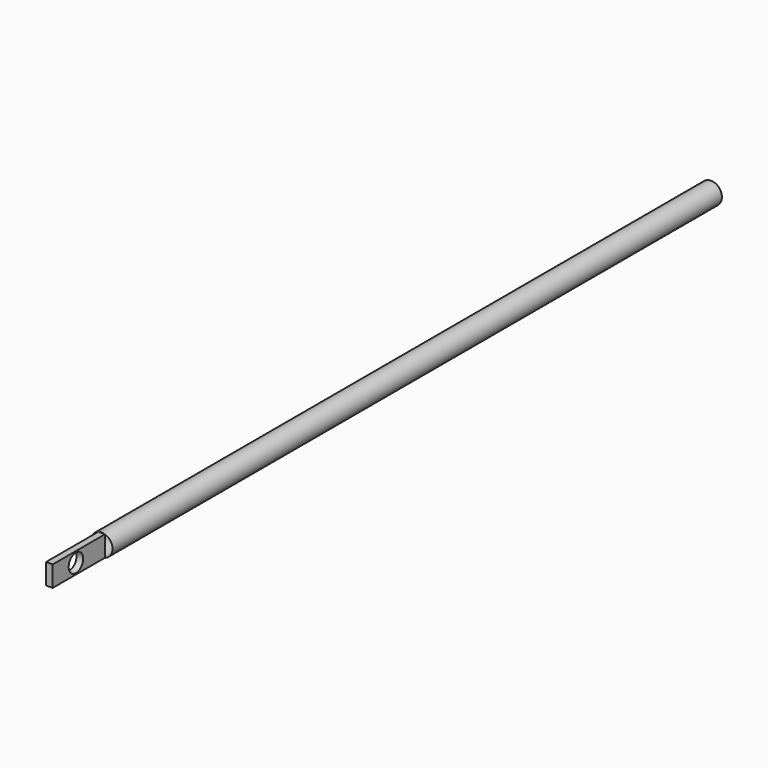
from build123d import *

# Parameters (mm, degrees)
F0_R     = 3
F1_DEPTH = 210
F2_W     = 1.834226
F2_H     = 5.712758
F3_DEPTH = 18
F5_R     = 2.5
F6_DEPTH = 1.834227


with BuildPart() as f1:
    # F0 (on Front) → F1 (new body)
    with BuildSketch(Plane.XZ):
        Circle(F0_R)
    extrude(amount=F1_DEPTH)

    # F2 (on face) → F3 (join)
    with BuildSketch(Plane.XZ.offset(210)):
        Rectangle(F2_W, F2_H)
    extrude(amount=F3_DEPTH)

    # F5 (on face) → F6 (cut, through all)
    with BuildSketch(Plane.YZ.offset(0.917113)):
        with Locations((-220, 0)):
            Circle(F5_R)
    extrude(amount=-F6_DEPTH, mode=Mode.SUBTRACT)


solid = f1.part
